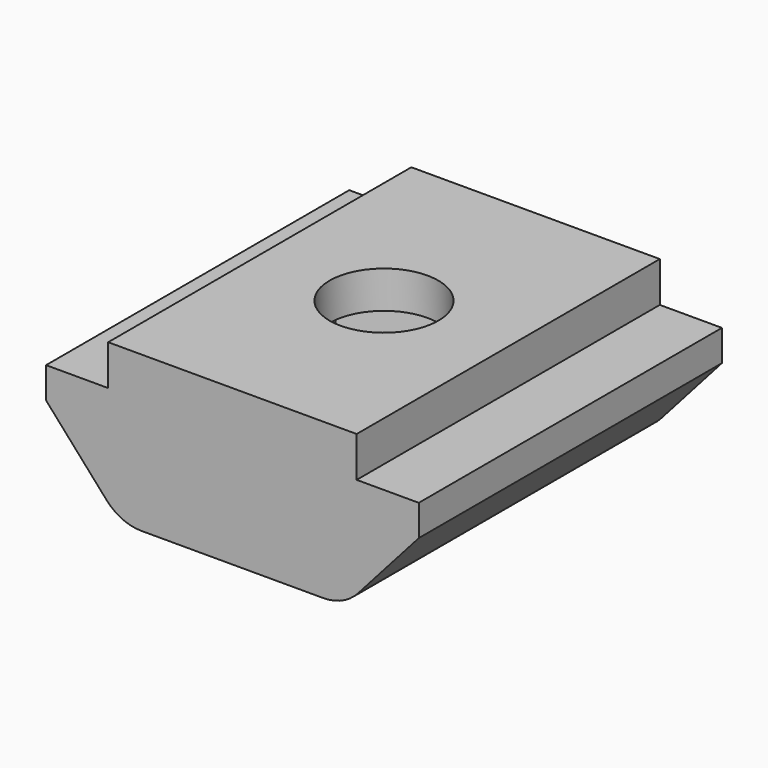
from build123d import *

# Parameters (mm, degrees)
PAD_DEPTH       = 6.1
SKETCH001_R     = 1.75
POCKET_DEPTH    = 5.001
POCKET001_DEPTH = 3.8
FILLET_R        = 1.5


with BuildPart() as part:
    # Sketch → Pad (new body, symmetric)
    with BuildSketch(Plane.XZ):
        Polygon((-6, 3.7), (-4, 3.7), (-4, 5), (4, 5), (4, 3.7), (6, 3.7), (6, 2.7), (3.6, 0), (-3.6, 0), (-6, 2.7), align=None)
    extrude(amount=PAD_DEPTH, both=True)

    # Sketch001 (on Face4 of Pad) → Pocket (cut, through all)
    with BuildSketch(Plane(origin=(0, 0, 5), x_dir=(-1, 0, 0), z_dir=(0, 0, 1))):
        Circle(SKETCH001_R)
    extrude(amount=-POCKET_DEPTH, mode=Mode.SUBTRACT)

    # Sketch002 (on Face7 of Pocket) → Pocket001 (cut)
    with BuildSketch(Plane(origin=(0, 0, 0), x_dir=(1, 0, 0), z_dir=(0, 0, -1))):
        Polygon((2.9, 1.674316), (0, 3.348632), (-2.9, 1.674316), (-2.9, -1.674316), (0, -3.348632), (2.9, -1.674316), align=None)
    extrude(amount=-POCKET001_DEPTH, mode=Mode.SUBTRACT)

    # Fillet
    fillet_edges = [part.edges().sort_by_distance(p)[0] for p in [
        (3.6, 0, 0),
        (-3.6, 0, 0),
    ]]
    fillet(fillet_edges, radius=FILLET_R)


solid = part.part
